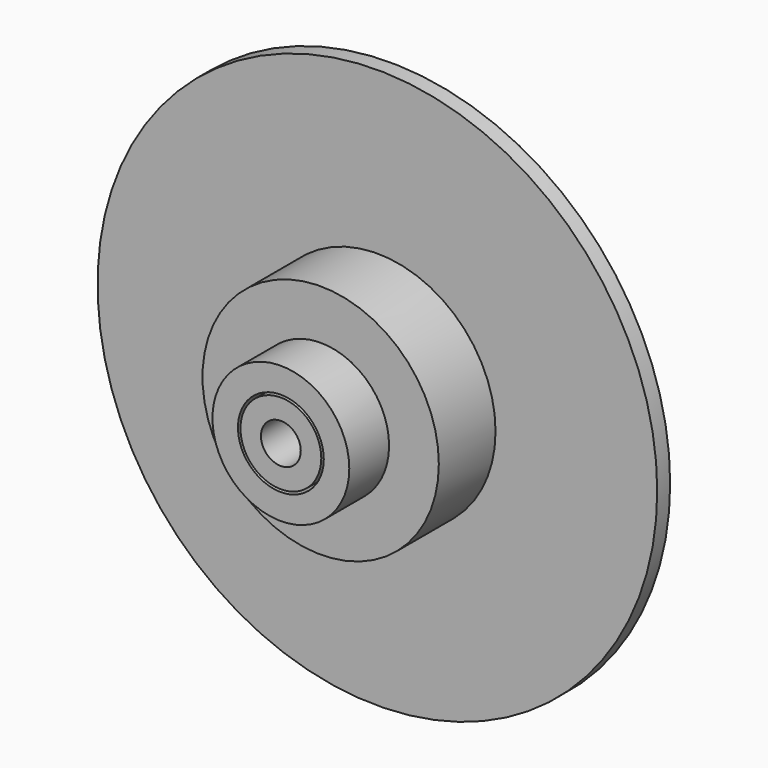
from build123d import *

# Parameters (mm, degrees)
F0_R      = 22.5
F0_R_2    = 9.5
F0_R_3    = 1.6
F1_DEPTH  = 1.3
F2_DEPTH  = 7
F3_R      = 3.25
F3_R_2    = 1.6
F4_DEPTH  = 4
F5_R      = 7.5
F5_R_2    = 1.6
F6_DEPTH  = 10.5
F7_R      = 3
F7_R_2    = 1.6
F8_DEPTH  = 1
F9_R      = 5.5
F9_R_2    = 3.45
F10_DEPTH = 5


with BuildPart() as f1:
    # F0 (on Front) → F1 (new body)
    with BuildSketch(Plane.XZ):
        Circle(F0_R)
        Circle(F0_R_2, mode=Mode.SUBTRACT)
        Circle(F0_R)
        Circle(F0_R_2, mode=Mode.SUBTRACT)
        Circle(F0_R_2)
        Circle(F0_R_3, mode=Mode.SUBTRACT)
    extrude(amount=F1_DEPTH)

    # F0 (on Front) → F2 (join)
    with BuildSketch(Plane.XZ):
        Circle(F0_R_2)
        Circle(F0_R_3, mode=Mode.SUBTRACT)
    extrude(amount=F2_DEPTH)

    # F3 (on face) → F4 (join)
    with BuildSketch(Plane.XZ.offset(7)):
        Circle(F3_R)
        Circle(F3_R_2, mode=Mode.SUBTRACT)
    extrude(amount=F4_DEPTH)

    # F5 (on face) → F6 (join)
    with BuildSketch(Plane(origin=(0, 0, 0), x_dir=(-1, 0, 0), z_dir=(0, 1, 0))):
        Circle(F5_R)
        Circle(F5_R_2, mode=Mode.SUBTRACT)
    extrude(amount=F6_DEPTH)

    # F7 (on face) → F8 (join)
    with BuildSketch(Plane(origin=(0, 10.5, 0), x_dir=(-1, 0, 0), z_dir=(0, 1, 0))):
        Circle(F7_R)
        Circle(F7_R_2, mode=Mode.SUBTRACT)
    extrude(amount=F8_DEPTH)


with BuildPart() as f10:
    # F9 (on face) → F10 (new body)
    with BuildSketch(Plane.XZ.offset(11)):
        Circle(F9_R)
        Circle(F9_R_2, mode=Mode.SUBTRACT)
    extrude(amount=-F10_DEPTH)


solid = Compound([f1.part, f10.part])
